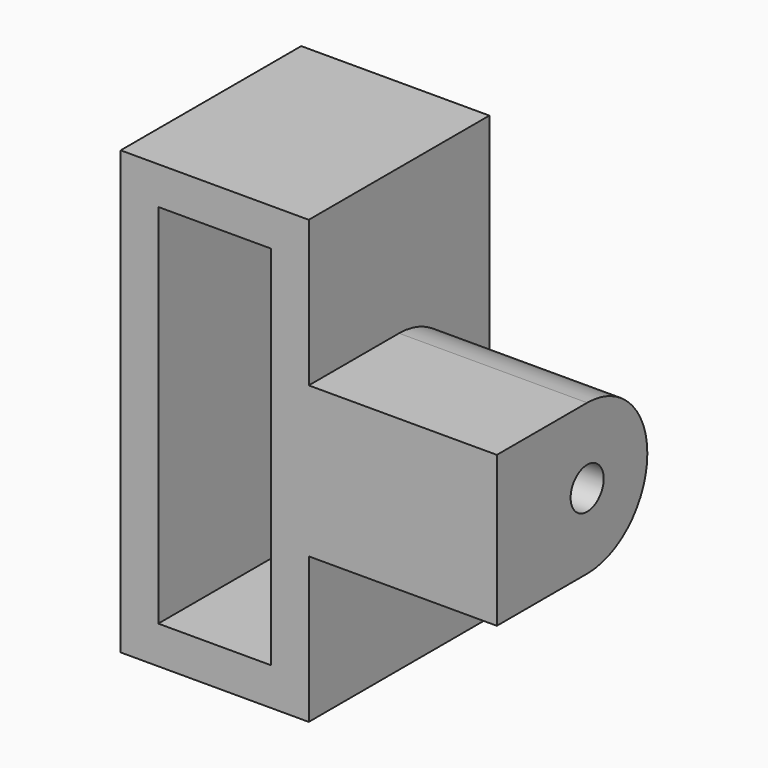
from build123d import *

# Parameters (mm, degrees)
CYLINDER001_R           = 1.1
CYLINDER001_DEPTH       = 15
CYLINDER001_PITCH_ANGLE = 90
BOX002_W                = 10
BOX002_H                = 6
BOX002_DEPTH            = 8
CYLINDER_R              = 4
CYLINDER_DEPTH          = 10
CYLINDER_PITCH_ANGLE    = 90
BOX001_W                = 6
BOX001_H                = 12
BOX001_DEPTH            = 19.5
BOX_W                   = 10
BOX_H                   = 12
BOX_DEPTH               = 23.5


with BuildPart() as cylinder001:
    # Cylinder001 → Cylinder001 (new body)
    with BuildSketch(Plane.XY):
        Circle(CYLINDER001_R)
    extrude(amount=CYLINDER001_DEPTH)


with BuildPart() as cylinder001_1:
    # Cylinder001 pitch: moved
    add(cylinder001.part.rotate(Axis((0, 0, 0), (0, 1, 0)), CYLINDER001_PITCH_ANGLE))


with BuildPart() as cylinder001_2:
    # Cylinder001 placement: moved
    add(cylinder001_1.part.moved(Location((7, 6, 11.75))))


with BuildPart() as cube002:
    # Box002 → Box002 (new body)
    with BuildSketch(Plane(origin=(10, 0, 7.75), x_dir=(1, 0, 0), z_dir=(0, 0, 1))):
        with Locations((5, 3)):
            Rectangle(BOX002_W, BOX002_H)
    extrude(amount=BOX002_DEPTH)


with BuildPart() as cylinder:
    # Cylinder → Cylinder (new body)
    with BuildSketch(Plane.XY):
        Circle(CYLINDER_R)
    extrude(amount=CYLINDER_DEPTH)


with BuildPart() as cylinder_1:
    # Cylinder pitch: moved
    add(cylinder.part.rotate(Axis((0, 0, 0), (0, 1, 0)), CYLINDER_PITCH_ANGLE))


with BuildPart() as cylinder_2:
    # Cylinder placement: moved
    add(cylinder_1.part.moved(Location((10, 6, 11.75))))


with BuildPart() as cube001:
    # Box001 → Box001 (new body)
    with BuildSketch(Plane(origin=(2, 0, 2), x_dir=(1, 0, 0), z_dir=(0, 0, 1))):
        with Locations((3, 6)):
            Rectangle(BOX001_W, BOX001_H)
    extrude(amount=BOX001_DEPTH)


with BuildPart() as cut001:
    # Box → Box (new body)
    with BuildSketch(Plane.XY):
        with Locations((5, 6)):
            Rectangle(BOX_W, BOX_H)
    extrude(amount=BOX_DEPTH)

    # Cut: cut Cube001
    add(cube001.part, mode=Mode.SUBTRACT)

    # Fusion: union Cylinder
    add(cylinder_2.part)

    # Fusion001: union Cube002
    add(cube002.part)

    # Cut001: cut Cylinder001
    add(cylinder001_2.part, mode=Mode.SUBTRACT)


solid = cut001.part
